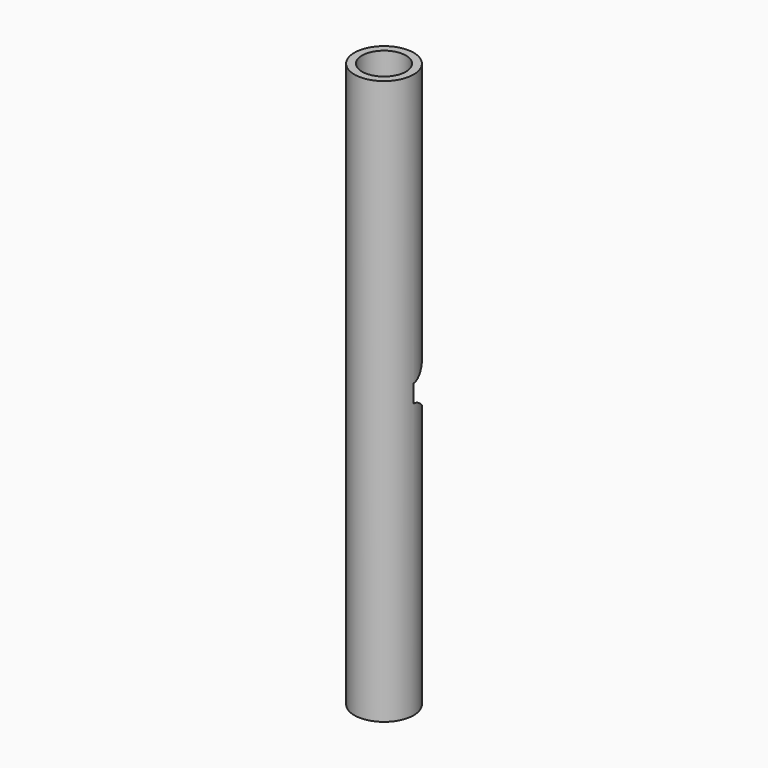
from build123d import *

# Parameters (mm, degrees)
F0_R     = 10.668
F0_R_2   = 7.8994
F1_DEPTH = 203.2
F2_R     = 10.668
F2_R_2   = 7.8994
F3_DEPTH = 25.4


with BuildPart() as f1:
    # F0 (on Top) → F1 (new body)
    with BuildSketch(Plane.XY):
        Circle(F0_R)
        Circle(F0_R_2, mode=Mode.SUBTRACT)
    extrude(amount=F1_DEPTH)

    # F2 (on Front) → F3 (cut)
    with BuildSketch(Plane.XZ):
        with Locations((0.5100271213, 102.0716684638)):
            Circle(F2_R)
        with Locations((0.5100271213, 102.0716684638)):
            Circle(F2_R_2, mode=Mode.SUBTRACT)
        with Locations((0.5100271213, 102.0716684638)):
            Circle(F2_R_2)
    extrude(amount=-F3_DEPTH, mode=Mode.SUBTRACT)


solid = f1.part
